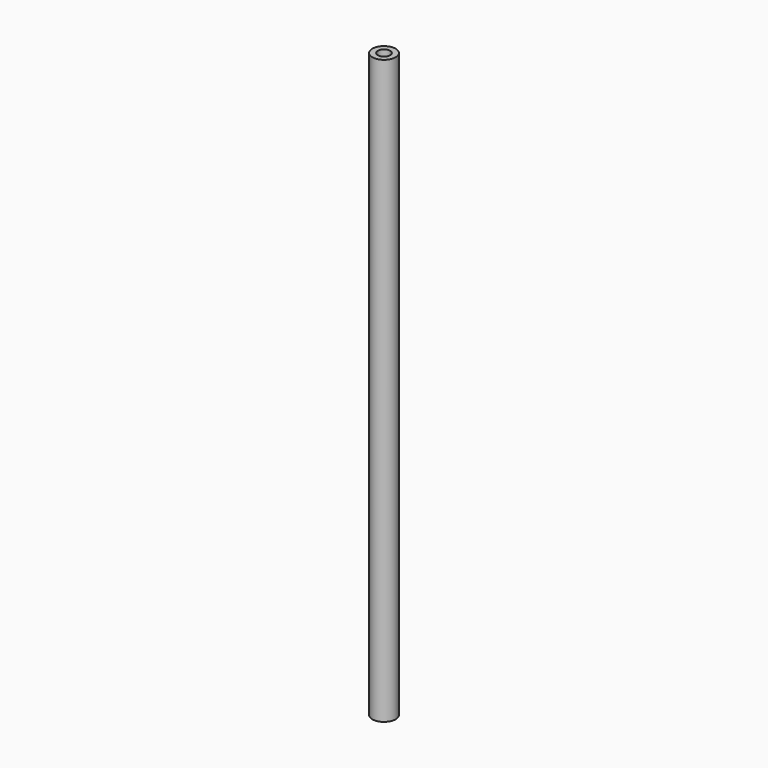
from build123d import *

# Parameters (mm, degrees)
F0_R     = 4
F1_DEPTH = 200
F3_D     = 4.2
F3_DEPTH = 14.4
F3_TIP   = 1.2618073
F5_D     = 4.2
F5_DEPTH = 14.4
F5_TIP   = 1.2618073


with BuildPart() as f1:
    # F0 (on Top) → F1 (new body)
    with BuildSketch(Plane.XY):
        Circle(F0_R)
    extrude(amount=F1_DEPTH)

    # F3
    with Locations(Plane.XY.offset(200)):
        with Locations((0, 0)):
            Hole(F3_D / 2, depth=F3_DEPTH)
            with Locations((0, 0, -(F3_DEPTH + F3_TIP / 2))):  # 118° drill point
                Cone(0, F3_D / 2, F3_TIP, mode=Mode.SUBTRACT)

    # F5
    with Locations(Plane(origin=(0, 0, 0), x_dir=(1, 0, 0), z_dir=(0, 0, -1))):
        with Locations((0, 0)):
            Hole(F5_D / 2, depth=F5_DEPTH)
            with Locations((0, 0, -(F5_DEPTH + F5_TIP / 2))):  # 118° drill point
                Cone(0, F5_D / 2, F5_TIP, mode=Mode.SUBTRACT)


solid = f1.part
